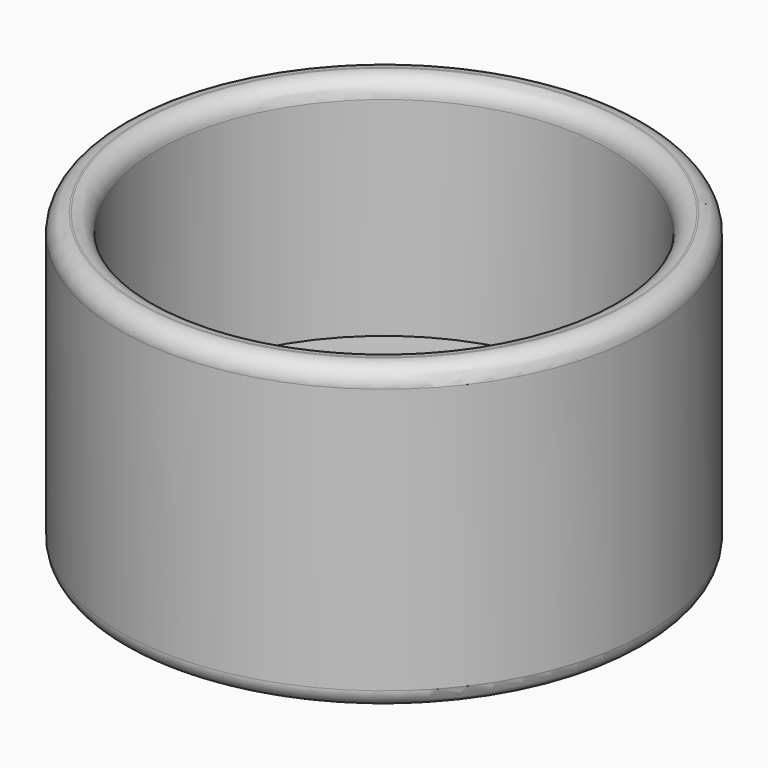
from build123d import *

# Parameters (mm, degrees)
F0_R     = 7.5
F1_DEPTH = 2.5
F0_R_2   = 8.75
F2_DEPTH = 10
F3_R     = 0.6


with BuildPart() as f1:
    # F0 (on Top) → F1 (new body)
    with BuildSketch(Plane.XY):
        Circle(F0_R)
    extrude(amount=F1_DEPTH)

    # F0 (on Top) → F2 (join)
    with BuildSketch(Plane.XY):
        Circle(F0_R_2)
        Circle(F0_R, mode=Mode.SUBTRACT)
    extrude(amount=F2_DEPTH)

    # F3
    f3_edges = [f1.edges().sort_by_distance(p)[0] for p in [
        (-7.5, 0, 10),
        (-8.75, 0, 10),
        (-8.75, 0, 0),
    ]]
    fillet(f3_edges, radius=F3_R)


solid = f1.part
